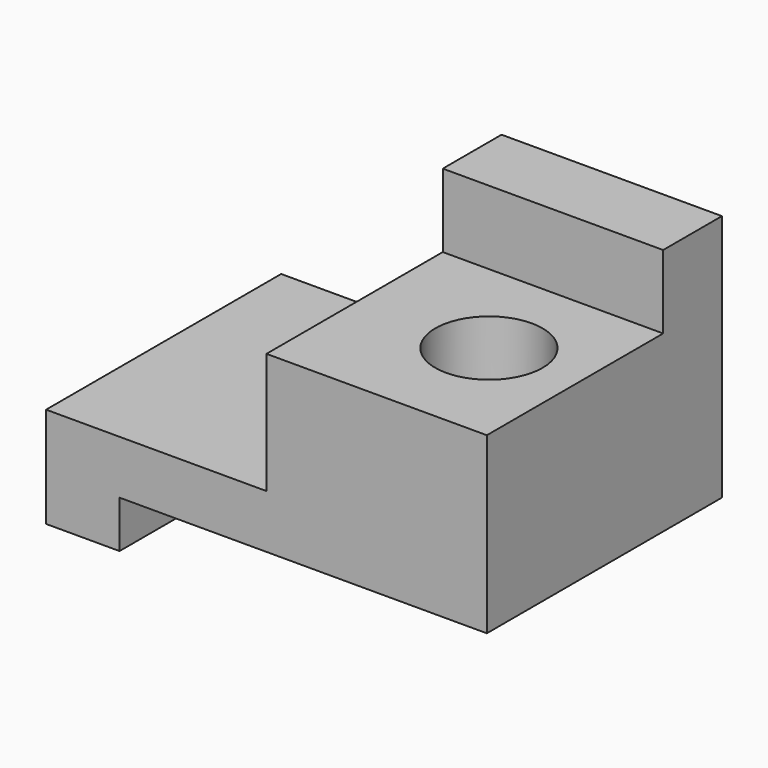
from build123d import *

# Parameters (mm, degrees)
F2_DEPTH = 50.8
F1_R     = 7.203181
F1_R_2   = 9.266269
F3_DEPTH = 88.9
F4_W     = 12.7
F4_H     = 12.7
F5_DEPTH = 38.1
F7_DEPTH = 76.2


with BuildPart() as f2:
    # F0 (on Front) → F2 (new body)
    with BuildSketch(Plane.XZ):
        Polygon((0, 0), (12.7, 0), (12.7, 8.135938), (76.2, 8.135938), (76.2, 50.983995), (38.1, 50.8), (38.1, 17.396355), (0, 17.396355), align=None)
    extrude(amount=-F2_DEPTH)

    # F1 (on Top) → F3 (cut)
    with BuildSketch(Plane.XY):
        with Locations((25.821837, 27.612405)):
            Circle(F1_R)
        with Locations((60.502268, 20.073181)):
            Circle(F1_R_2)
    extrude(amount=F3_DEPTH, mode=Mode.SUBTRACT)

    # F4 (on face) → F5 (join)
    with BuildSketch(Plane.YZ.offset(76.2)):
        with Locations((44.45, 44.633995)):
            Rectangle(F4_W, F4_H)
    extrude(amount=-F5_DEPTH)

    # F6 (on Right) → F7 (cut)
    with BuildSketch(Plane.YZ):
        Polygon((38.1, 51.342876), (0, 50.983995), (0, 38.283995), (38.1, 38.283995), align=None)
    extrude(amount=F7_DEPTH, mode=Mode.SUBTRACT)


solid = f2.part
